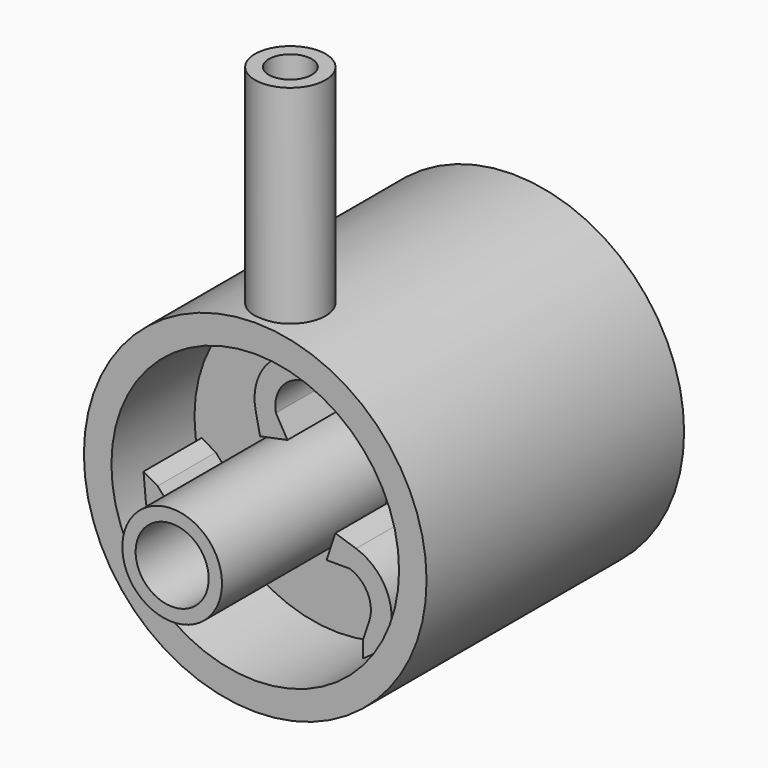
from build123d import *

# Parameters (mm, degrees)
F0_R      = 16.5
F1_DEPTH  = 21
F2_R      = 16.5
F2_R_2    = 13.851235
F3_DEPTH  = 10
F4_R      = 4.8
F4_R_2    = 3.518021
F5_DEPTH  = 20
F7_DEPTH  = 7
F10_R     = 3.4
F10_R_2   = 2.068138
F11_DEPTH = 20


with BuildPart() as f1:
    # F0 (on Front) → F1 (new body)
    with BuildSketch(Plane.XZ):
        Circle(F0_R)
    extrude(amount=F1_DEPTH)

    # F2 (on face) → F3 (join)
    with BuildSketch(Plane.XZ.offset(21)):
        Circle(F2_R)
        Circle(F2_R_2, mode=Mode.SUBTRACT)
    extrude(amount=F3_DEPTH)

    # F4 (on face) → F5 (join)
    with BuildSketch(Plane.XZ.offset(21)):
        Circle(F4_R)
        Circle(F4_R_2, mode=Mode.SUBTRACT)
    extrude(amount=F5_DEPTH)

    # F6 (on face) → F7 (join)
    with BuildSketch(Plane.XZ.offset(21)):
        with BuildLine():
            Line((10.207186, -9.018168), (10.485276, -7.813368))
            ThreePointArc((10.485276, -7.813368), (10.207186, -3.996652), (7.31172, -1.494465))
            Line((7.31172, -1.494465), (5.314166, -0.832571))
            Line((5.314166, -0.832571), (4.465776, -3.392957))
            Line((4.465776, -3.392957), (6.68265, -3.392957))
            ThreePointArc((6.68265, -3.392957), (8.41993, -4.894269), (8.586784, -7.184299))
            Line((8.586784, -7.184299), (7.979127, -9.018168))
            Line((7.979127, -9.018168), (7.979127, -10.589611))
            Line((7.979127, -10.589611), (10.207186, -9.018168))
        make_face()
        with BuildLine():
            ThreePointArc((1.523938, 12.987199), (-1.642391, 10.838008), (-2.361615, 7.079367))
            Line((-2.361615, 7.079367), (-1.936055, 5.018488))
            Line((-1.936055, 5.018488), (0.705499, 5.563954))
            Line((0.705499, 5.563954), (-0.402938, 7.483823))
            ThreePointArc((-0.402938, 7.483823), (0.028596, 9.739007), (1.928393, 11.028522))
            Line((1.928393, 11.028522), (3.820399, 11.419211))
            Line((3.820399, 11.419211), (5.181308, 12.204932))
            Line((5.181308, 12.204932), (2.70637, 13.348766))
            Line((2.70637, 13.348766), (1.523938, 12.987199))
        make_face()
        with BuildLine():
            ThreePointArc((-12.009213, -5.173831), (-8.564795, -6.841356), (-4.950104, -5.584903))
            Line((-4.950104, -5.584903), (-3.378111, -4.185917))
            Line((-3.378111, -4.185917), (-5.171275, -2.170997))
            Line((-5.171275, -2.170997), (-6.279712, -4.090866))
            ThreePointArc((-6.279712, -4.090866), (-8.448526, -4.844738), (-10.515177, -3.844223))
            Line((-10.515177, -3.844223), (-11.799526, -2.401043))
            Line((-11.799526, -2.401043), (-13.160435, -1.615321))
            Line((-13.160435, -1.615321), (-12.913556, -4.330598))
            Line((-12.913556, -4.330598), (-12.009213, -5.173831))
        make_face()
    extrude(amount=F7_DEPTH)

    # F10 (on plane+point) → F11 (join)
    with BuildSketch(Plane.XY.offset(16.464327)):
        with Locations((0, -26.77853)):
            Circle(F10_R)
        with Locations((0, -26.77853)):
            Circle(F10_R_2, mode=Mode.SUBTRACT)
    extrude(amount=F11_DEPTH)


solid = f1.part
